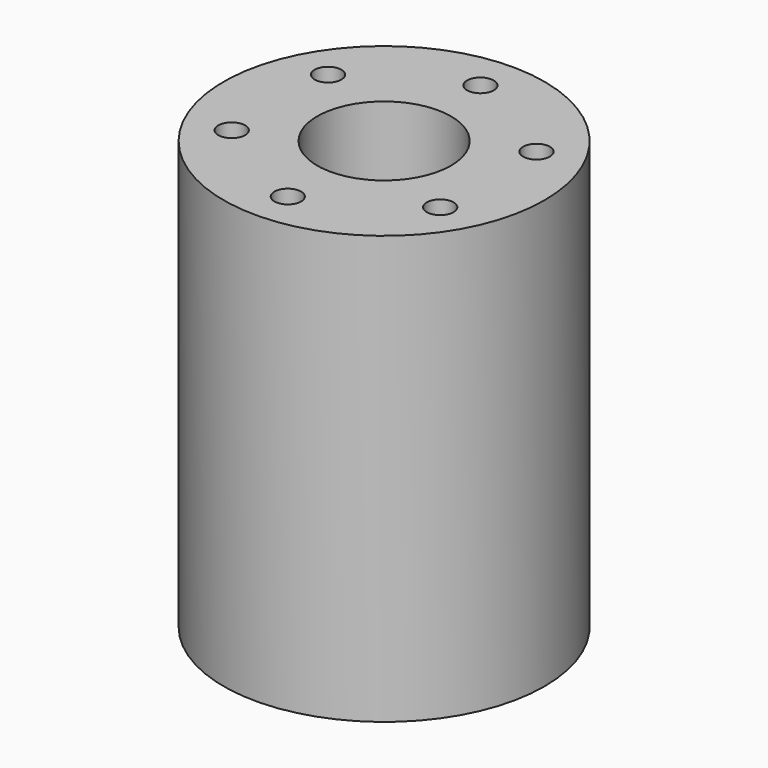
from build123d import *

# Parameters (mm, degrees)
F0_R     = 38.1
F0_R_2   = 15.875
F1_DEPTH = 101.6
F2_R     = 3.175
F3_DEPTH = 101.601


with BuildPart() as f1:
    # F0 (on Top) → F1 (new body)
    with BuildSketch(Plane.XY):
        Circle(F0_R)
        Circle(F0_R_2, mode=Mode.SUBTRACT)
    extrude(amount=F1_DEPTH)

    # F2 (on face) → F3 (cut, through all)
    with BuildSketch(Plane.XY.offset(101.6)):
        with Locations((0, 28.575)):
            Circle(F2_R)
        with Locations((-24.746676, 14.2875)):
            Circle(F2_R)
        with Locations((-24.746676, -14.2875)):
            Circle(F2_R)
        with Locations((0, -28.575)):
            Circle(F2_R)
        with Locations((24.746676, -14.2875)):
            Circle(F2_R)
        with Locations((24.746676, 14.2875)):
            Circle(F2_R)
    extrude(amount=-F3_DEPTH, mode=Mode.SUBTRACT)


solid = f1.part
